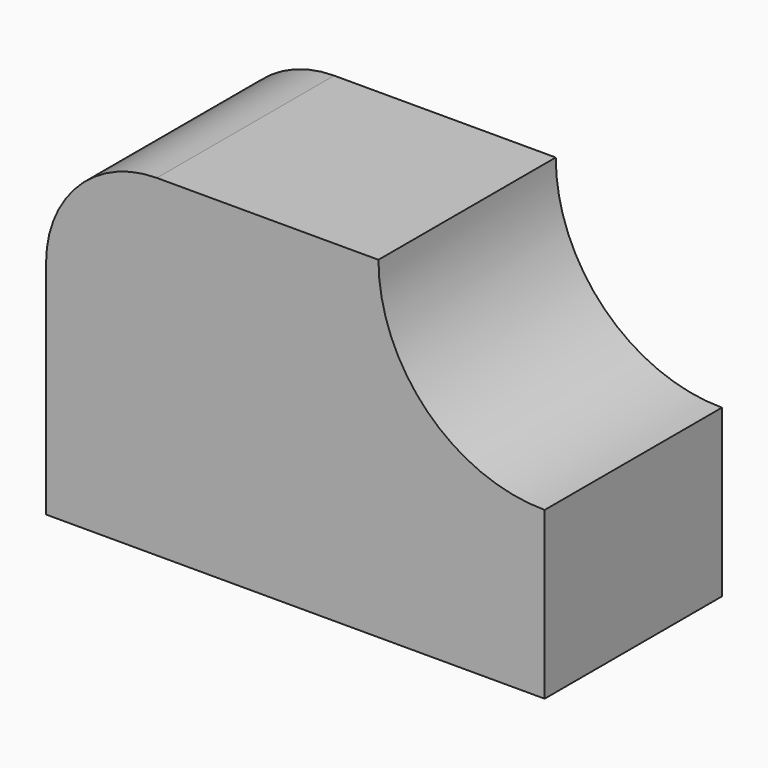
from build123d import *

# Parameters (mm, degrees)
F0_W     = 57.15
F0_H     = 38.1
F1_DEPTH = 25.4
F3_DEPTH = 25.4
F4_R     = 12.7


with BuildPart() as f1:
    # F0 (on Front) → F1 (new body)
    with BuildSketch(Plane.XZ):
        with Locations((28.575, 19.05)):
            Rectangle(F0_W, F0_H)
    extrude(amount=-F1_DEPTH)

    # F2 (on face) → F3 (cut)
    with BuildSketch(Plane.XZ):
        with BuildLine():
            Line((57.15, 38.1), (38.1, 38.1))
            ThreePointArc((38.1, 38.1), (43.679616, 24.629616), (57.15, 19.05))
            Line((57.15, 19.05), (57.15, 38.1))
        make_face()
    extrude(amount=-F3_DEPTH, mode=Mode.SUBTRACT)

    # F4
    f4_edges = [f1.edges().sort_by_distance(p)[0] for p in [
        (0, 12.7, 38.1),
    ]]
    fillet(f4_edges, radius=F4_R)


solid = f1.part
